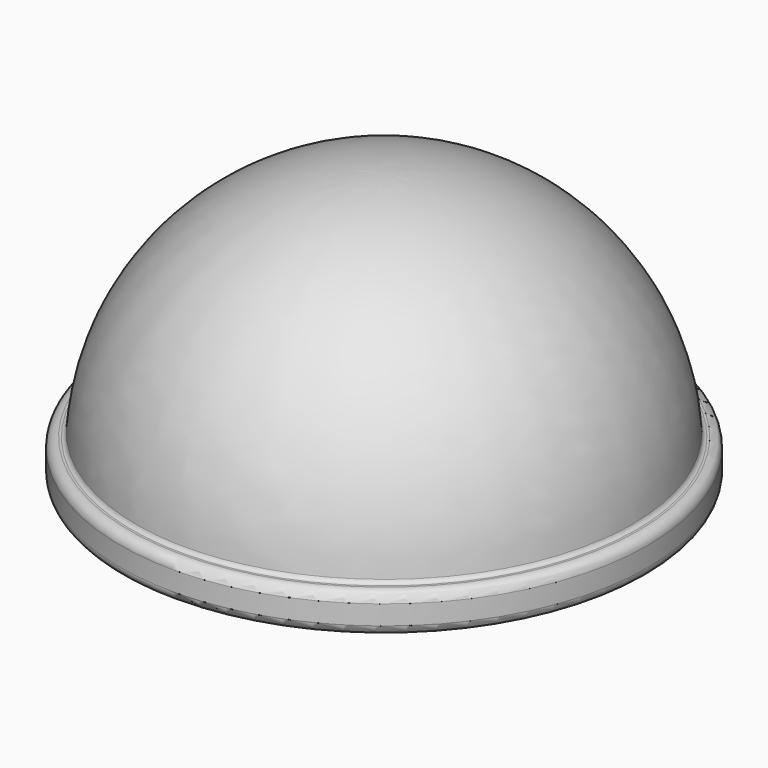
from build123d import *

# Parameters (mm, degrees)
F2_R = 0.5
F3_R = 0.2


with BuildPart() as f1:
    # F0 (on Front) → F1 (revolve)
    with BuildSketch(Plane.XZ):
        with BuildLine():
            Line((-8.3173271554, 10.0615177009), (-8.3173271554, -3.9384822991))
            Line((-8.3173271554, -3.9384822991), (5.2826728446, -3.9384822991))
            Line((5.2826728446, -3.9384822991), (5.2826728446, -1.9384822991))
            Line((5.2826728446, -1.9384822991), (4.4826728446, -1.9384822991))
            ThreePointArc((4.4826728446, -1.9384822991), (0.4863851378, 6.6254774803), (-8.3173271554, 10.0615177009))
        make_face()
    revolve(axis=Axis((-8.3173271554, 0, 3.0615177009), (0, 0, 1)))

    # F2
    f2_edges = [f1.edges().sort_by_distance(p)[0] for p in [
        (-21.917327, 0, -3.938482),
        (-21.917327, 0, -1.938482),
    ]]
    fillet(f2_edges, radius=F2_R)

    # F3
    f3_edges = [f1.edges().sort_by_distance(p)[0] for p in [
        (-21.117327, 0, -1.938482),
    ]]
    fillet(f3_edges, radius=F3_R)


solid = f1.part
